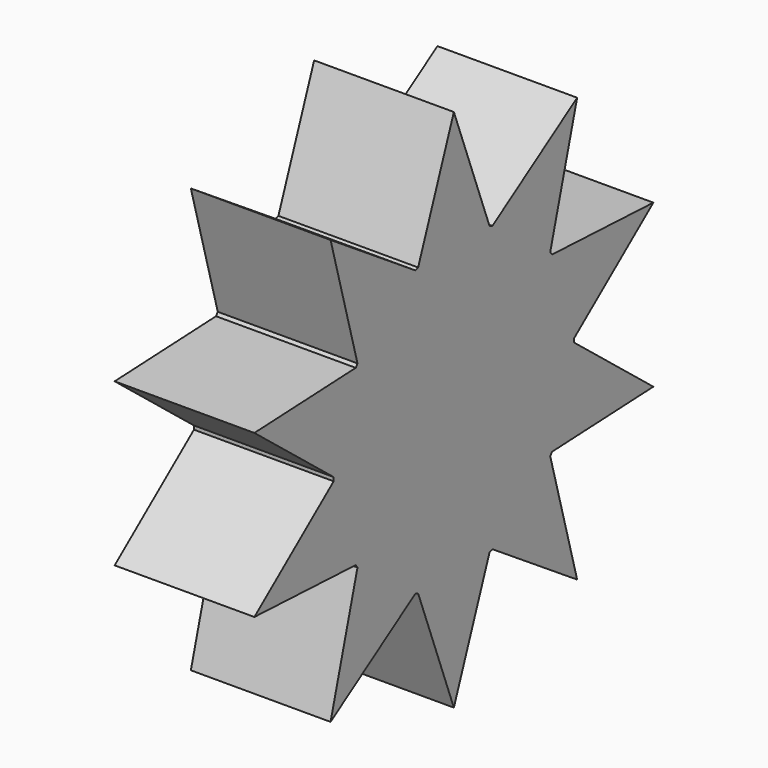
from build123d import *

# Parameters (mm, degrees)
F1_DEPTH = 25.4


with BuildPart() as f1:
    # F0 (on Right) → F1 (new body)
    with BuildSketch(Plane.YZ):
        with BuildLine():
            ThreePointArc((27.313705, -0.338476), (27.315278, -0.169241), (27.315802, 0))
            ThreePointArc((27.315802, 0), (27.315278, 0.169241), (27.313705, 0.338476))
            ThreePointArc((27.313705, 0.338476), (25.978872, 8.441047), (22.296203, 15.78076))
            ThreePointArc((22.296203, 15.78076), (22.098948, 16.055826), (21.898301, 16.328426))
            ThreePointArc((21.898301, 16.328426), (16.055826, 22.098948), (8.762309, 25.872283))
            ThreePointArc((8.762309, 25.872283), (8.441047, 25.978872), (8.118489, 26.081472))
            ThreePointArc((8.118489, 26.081472), (0, 27.315802), (-8.118489, 26.081472))
            ThreePointArc((-8.118489, 26.081472), (-8.441047, 25.978872), (-8.762309, 25.872283))
            ThreePointArc((-8.762309, 25.872283), (-16.055826, 22.098948), (-21.898301, 16.328426))
            ThreePointArc((-21.898301, 16.328426), (-22.098948, 16.055826), (-22.296203, 15.78076))
            ThreePointArc((-22.296203, 15.78076), (-25.978872, 8.441047), (-27.313705, 0.338476))
            ThreePointArc((-27.313705, 0.338476), (-27.315802, 0), (-27.313705, -0.338476))
            ThreePointArc((-27.313705, -0.338476), (-25.978872, -8.441047), (-22.296203, -15.78076))
            ThreePointArc((-22.296203, -15.78076), (-22.098948, -16.055826), (-21.898301, -16.328426))
            ThreePointArc((-21.898301, -16.328426), (-16.055826, -22.098948), (-8.762309, -25.872283))
            ThreePointArc((-8.762309, -25.872283), (-8.441047, -25.978872), (-8.118489, -26.081472))
            ThreePointArc((-8.118489, -26.081472), (0, -27.315802), (8.118489, -26.081472))
            ThreePointArc((8.118489, -26.081472), (8.441047, -25.978872), (8.762309, -25.872283))
            ThreePointArc((8.762309, -25.872283), (16.055826, -22.098948), (21.898301, -16.328426))
            ThreePointArc((21.898301, -16.328426), (22.098948, -16.055826), (22.296203, -15.78076))
            ThreePointArc((22.296203, -15.78076), (25.978872, -8.441047), (27.313705, -0.338476))
        make_face()
        with BuildLine():
            ThreePointArc((22.296203, 15.78076), (25.978872, 8.441047), (27.313705, 0.338476))
            Line((27.313705, 0.338476), (45.331716, 14.729167))
            Line((45.331716, 14.729167), (22.296203, 15.78076))
        make_face()
        with BuildLine():
            Line((45.331716, -14.729167), (27.313705, -0.338476))
            ThreePointArc((27.313705, -0.338476), (25.978872, -8.441047), (22.296203, -15.78076))
            Line((22.296203, -15.78076), (45.331716, -14.729167))
        make_face()
        with BuildLine():
            ThreePointArc((8.762309, 25.872283), (16.055826, 22.098948), (21.898301, 16.328426))
            Line((21.898301, 16.328426), (28.016541, 38.56146))
            Line((28.016541, 38.56146), (8.762309, 25.872283))
        make_face()
        with BuildLine():
            Line((28.016541, -38.56146), (21.898301, -16.328426))
            ThreePointArc((21.898301, -16.328426), (16.055826, -22.098948), (8.762309, -25.872283))
            Line((8.762309, -25.872283), (28.016541, -38.56146))
        make_face()
        with BuildLine():
            ThreePointArc((-8.118489, 26.081472), (0, 27.315802), (8.118489, 26.081472))
            Line((8.118489, 26.081472), (0, 47.664586))
            Line((0, 47.664586), (-8.118489, 26.081472))
        make_face()
        with BuildLine():
            Line((0, -47.664586), (8.118489, -26.081472))
            ThreePointArc((8.118489, -26.081472), (0, -27.315802), (-8.118489, -26.081472))
            Line((-8.118489, -26.081472), (0, -47.664586))
        make_face()
        with BuildLine():
            ThreePointArc((-21.898301, 16.328426), (-16.055826, 22.098948), (-8.762309, 25.872283))
            Line((-8.762309, 25.872283), (-28.016541, 38.56146))
            Line((-28.016541, 38.56146), (-21.898301, 16.328426))
        make_face()
        with BuildLine():
            Line((-28.016541, -38.56146), (-8.762309, -25.872283))
            ThreePointArc((-8.762309, -25.872283), (-16.055826, -22.098948), (-21.898301, -16.328426))
            Line((-21.898301, -16.328426), (-28.016541, -38.56146))
        make_face()
        with BuildLine():
            ThreePointArc((-27.313705, 0.338476), (-25.978872, 8.441047), (-22.296203, 15.78076))
            Line((-22.296203, 15.78076), (-45.331716, 14.729167))
            Line((-45.331716, 14.729167), (-27.313705, 0.338476))
        make_face()
        with BuildLine():
            Line((-45.331716, -14.729167), (-22.296203, -15.78076))
            ThreePointArc((-22.296203, -15.78076), (-25.978872, -8.441047), (-27.313705, -0.338476))
            Line((-27.313705, -0.338476), (-45.331716, -14.729167))
        make_face()
    extrude(amount=F1_DEPTH)


solid = f1.part
